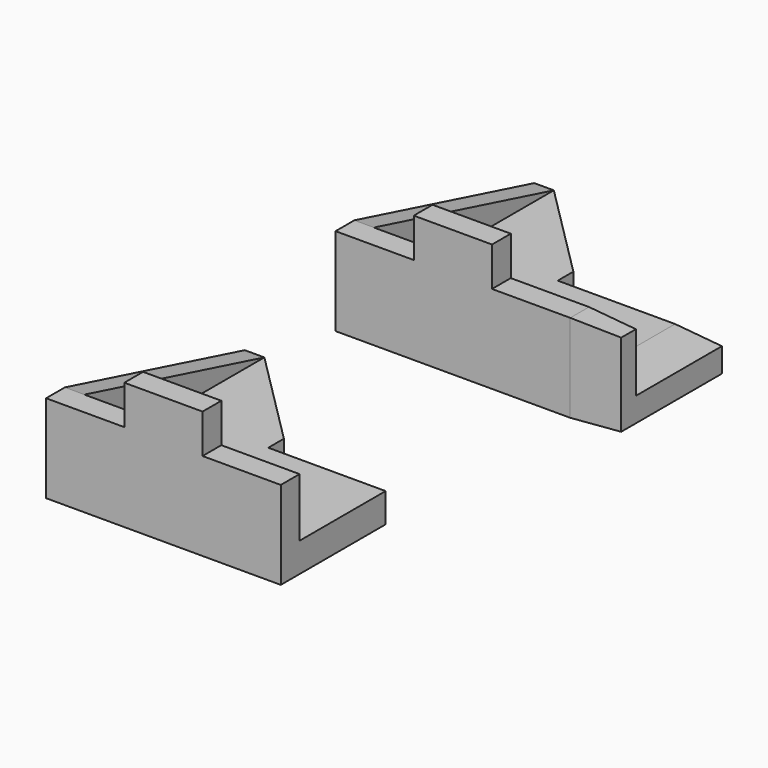
from build123d import *

# Parameters (mm, degrees)
F1_DEPTH = 12
F3_DEPTH = 15
F5_DEPTH = 10
F6_SIZE  = 50
F8_DEPTH = 25
F8_TAPER = 3


with BuildPart() as f1:
    # F0 (on Front) → F1 (new body)
    with BuildSketch(Plane.XZ):
        Polygon((-60, 0), (0, 0), (60, 0), (60, 45), (20, 45), (20, 65), (-20, 65), (-20, 45), (-60, 45), align=None)
    extrude(amount=F1_DEPTH)

    # F2 (on Top) → F3 (join)
    with BuildSketch(Plane.XY):
        Polygon((-60, 0), (0, 0), (60, 0), (60, 55), (0, 55), (0, 115), (-60, 115), align=None)
    extrude(amount=F3_DEPTH)

    # F4 (on face) → F5 (join)
    with BuildSketch(Plane(origin=(-60, 0, 0), x_dir=(0, -1, 0), z_dir=(-1, 0, 0))):
        Polygon((0, 45), (-115, 15), (0, 15), align=None)
    extrude(amount=-F5_DEPTH)

    # F6
    f6_edges = [f1.edges().sort_by_distance(p)[0] for p in [
        (0, 115, 7.5),
    ]]
    chamfer(f6_edges, length=F6_SIZE)


with BuildPart() as f7_1:
    # F7: copy of F1
    add(f1.part.moved(Location((0, 185, 0))))

    # F7_face (on face) → F8 (join)
    with BuildSketch(Plane(origin=(60, 199.2472527473, 13.4340659341), x_dir=(0, 1, 0), z_dir=(1, 0, 0))):
        Polygon((-26.2472527473, 31.5659340659), (-26.2472527473, -13.4340659341), (40.7527472527, -13.4340659341), (40.7527472527, 1.5659340659), (-14.2472527473, 1.5659340659), (-14.2472527473, 31.5659340659), align=None)
    extrude(amount=F8_DEPTH, taper=F8_TAPER)


solid = Compound([f1.part, f7_1.part])
